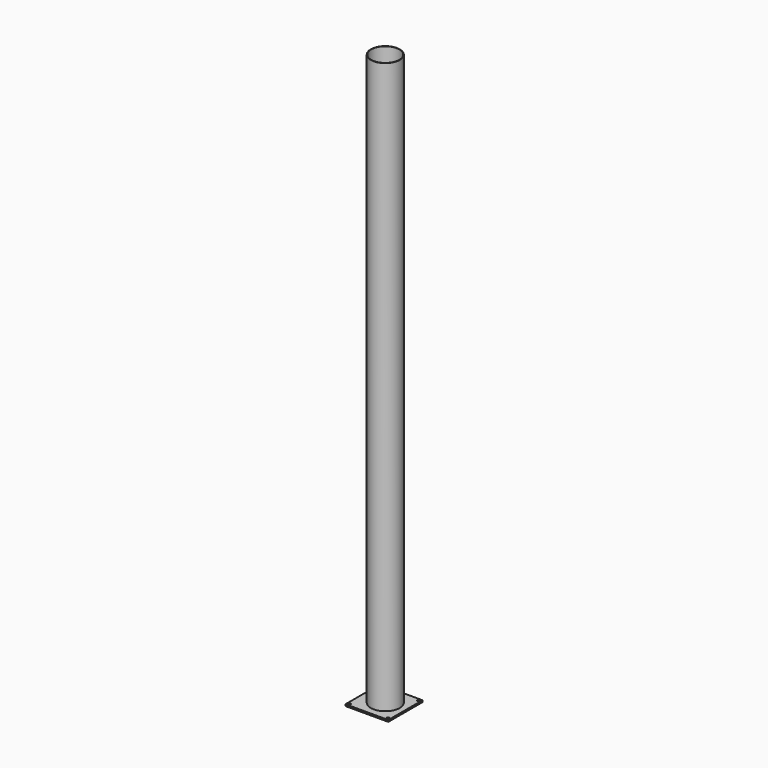
from build123d import *

# Parameters (mm, degrees)
F0_W     = 150
F0_H     = 150
F0_R     = 38.1
F1_DEPTH = 6
F0_R_2   = 4.7625
F2_R     = 50.8
F2_R_2   = 49.3
F4_DEPTH = 2000


with BuildPart() as f1:
    # F0 (on Top) → F1 (new body)
    with BuildSketch(Plane.XY):
        Rectangle(F0_W, F0_H)
        with BuildLine():
            Line((62.7375, -67.5), (-62.7375, -67.5))
            ThreePointArc((-62.7375, -67.5), (-70.8675960454, -70.8675960454), (-67.5, -62.7375))
            Line((-67.5, -62.7375), (-67.5, 62.7375))
            ThreePointArc((-67.5, 62.7375), (-70.8675960454, 70.8675960454), (-62.7375, 67.5))
            Line((-62.7375, 67.5), (62.7375, 67.5))
            ThreePointArc((62.7375, 67.5), (67.5, 72.2625), (72.2625, 67.5))
            ThreePointArc((72.2625, 67.5), (70.8675960454, 64.1324039546), (67.5, 62.7375))
            Line((67.5, 62.7375), (67.5, -62.7375))
            ThreePointArc((67.5, -62.7375), (70.8675960454, -64.1324039546), (72.2625, -67.5))
            ThreePointArc((72.2625, -67.5), (67.5, -72.2625), (62.7375, -67.5))
        make_face(mode=Mode.SUBTRACT)
        with BuildLine():
            ThreePointArc((-67.5, -62.7375), (-64.1324039546, -64.1324039546), (-62.7375, -67.5))
            Line((-62.7375, -67.5), (62.7375, -67.5))
            ThreePointArc((62.7375, -67.5), (64.1324039546, -64.1324039546), (67.5, -62.7375))
            Line((67.5, -62.7375), (67.5, 62.7375))
            ThreePointArc((67.5, 62.7375), (64.1324039546, 64.1324039546), (62.7375, 67.5))
            Line((62.7375, 67.5), (-62.7375, 67.5))
            ThreePointArc((-62.7375, 67.5), (-64.1324039546, 64.1324039546), (-67.5, 62.7375))
            Line((-67.5, 62.7375), (-67.5, -62.7375))
        make_face()
        Circle(F0_R, mode=Mode.SUBTRACT)
    extrude(amount=F1_DEPTH)


with BuildPart() as f1b:
    # F0 (on Top) → F1, piece 2 (new body)
    with BuildSketch(Plane.XY):
        with Locations((202.5, -67.5)):
            Circle(F0_R_2)
    extrude(amount=F1_DEPTH)


with BuildPart() as f4:
    # F2 (on face) → F4 (new body)
    with BuildSketch(Plane.XY.offset(6)):
        with Locations((4.4067243471, 0)):
            Circle(F2_R)
        with Locations((4.4067243471, 0)):
            Circle(F2_R_2, mode=Mode.SUBTRACT)
    extrude(amount=F4_DEPTH)


solid = Compound([f1.part, f4.part])
